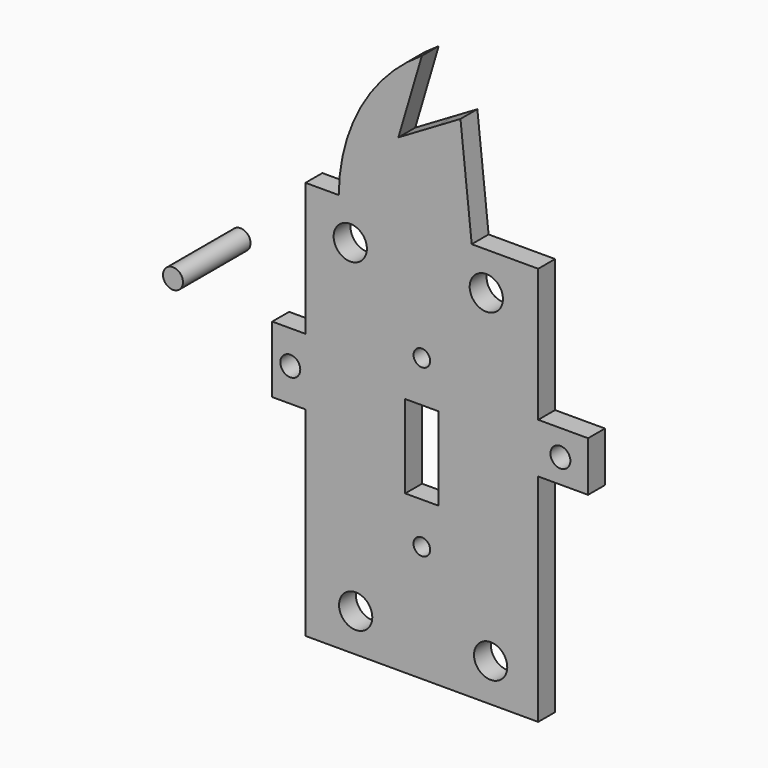
from build123d import *

# Parameters (mm, degrees)
F0_R     = 5
F0_R_2   = 2.5
F0_W     = 10
F0_H     = 25
F0_H_2   = 20
F0_R_3   = 3
F0_W_2   = 15
F0_H_3   = 15
F1_DEPTH = 6.35
F2_DEPTH = 25.4


with BuildPart() as f1:
    # F0 (on Front) → F1 (new body)
    with BuildSketch(Plane.XZ):
        with BuildLine():
            Line((-25, 60), (15, 60))
            Line((15, 60), (11.6191543639, 92.0695438981))
            Line((11.6191543639, 92.0695438981), (4.6488310281, 87.9780731748))
            Line((4.6488310281, 87.9780731748), (-7.0641576312, 81.1027321219))
            Line((-7.0641576312, 81.1027321219), (0, 105))
            ThreePointArc((0, 105), (-18.2401423346, 85.6889679637), (-25, 60))
        make_face()
        Polygon((-35, -60), (35, -60), (35, 5), (35, 20), (35, 60), (15, 60), (-25, 60), (-35, 60), (-35, 20), (-35, 0), align=None)
        with Locations((-19.903981709, -48.5192)):
            Circle(F0_R, mode=Mode.SUBTRACT)
        with Locations((20.6948780242, -48.5192)):
            Circle(F0_R, mode=Mode.SUBTRACT)
        with Locations((0, -25)):
            Circle(F0_R_2, mode=Mode.SUBTRACT)
        Rectangle(F0_W, F0_H, mode=Mode.SUBTRACT)
        with Locations((-21.5351842344, 48.5303327441)):
            Circle(F0_R, mode=Mode.SUBTRACT)
        with Locations((0, 25)):
            Circle(F0_R_2, mode=Mode.SUBTRACT)
        with Locations((19.3892753698, 48.5303252)):
            Circle(F0_R, mode=Mode.SUBTRACT)
        with Locations((-40, 10)):
            Rectangle(F0_W, F0_H_2)
        with Locations((-39.5677238703, 10)):
            Circle(F0_R_3, mode=Mode.SUBTRACT)
        with Locations((42.5, 12.5)):
            Rectangle(F0_W_2, F0_H_3)
        with Locations((41.6760370135, 12.2674684972)):
            Circle(F0_R_3, mode=Mode.SUBTRACT)
    extrude(amount=F1_DEPTH)


with BuildPart() as f2:
    # F0 (on Front) → F2 (new body)
    with BuildSketch(Plane.XZ):
        with Locations((-59.6105381846, 34.3868359923)):
            Circle(F0_R_3)
    extrude(amount=F2_DEPTH)


solid = Compound([f1.part, f2.part])
